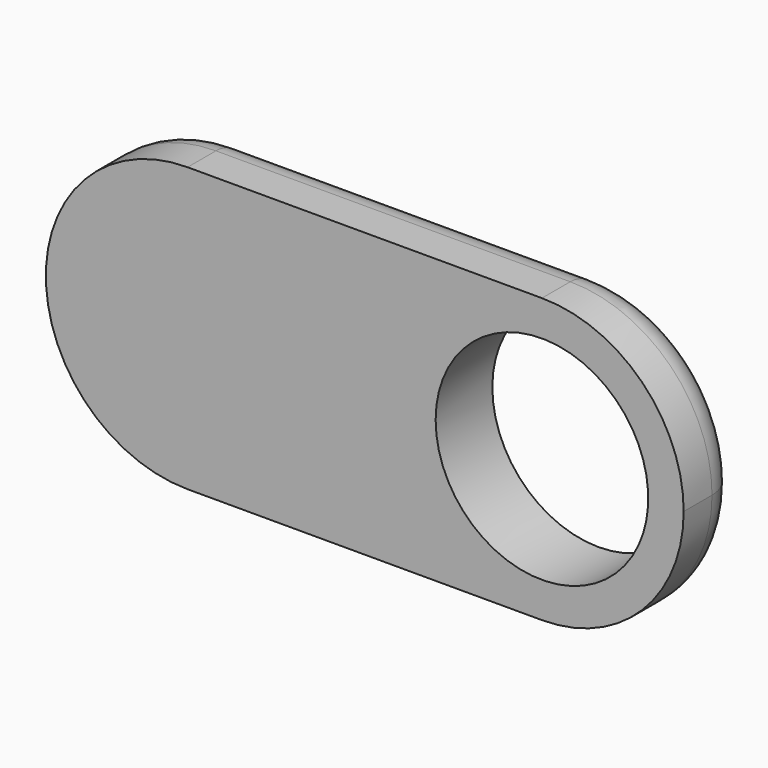
from build123d import *

# Parameters (mm, degrees)
F1_DEPTH = 1.27
F2_R     = 0.635
F4_D     = 3.81


with BuildPart() as f1:
    # F0 (on Front) → F1 (new body)
    with BuildSketch(Plane.XZ):
        with BuildLine():
            ThreePointArc((-3.175, -2.54), (-1.378949, -1.796051), (-0.635, 0))
            ThreePointArc((-0.635, 0), (-1.378949, 1.796051), (-3.175, 2.54))
            ThreePointArc((-3.175, 2.54), (-5.715, 0), (-3.175, -2.54))
        make_face()
        with BuildLine():
            ThreePointArc((-3.175, 2.54), (-1.378949, 1.796051), (-0.635, 0))
            ThreePointArc((-0.635, 0), (-1.378949, -1.796051), (-3.175, -2.54))
            Line((-3.175, -2.54), (3.175, -2.54))
            ThreePointArc((3.175, -2.54), (0.635, 0), (3.175, 2.54))
            Line((3.175, 2.54), (-3.175, 2.54))
        make_face()
        with BuildLine():
            ThreePointArc((5.715, 0), (4.971051, 1.796051), (3.175, 2.54))
            ThreePointArc((3.175, 2.54), (0.635, 0), (3.175, -2.54))
            ThreePointArc((3.175, -2.54), (4.971051, -1.796051), (5.715, 0))
        make_face()
    extrude(amount=F1_DEPTH)

    # F2
    f2_edges = [f1.edges().sort_by_distance(p)[0] for p in [
        (0, 0, -2.54),
    ]]
    fillet(f2_edges, radius=F2_R)

    # F4 (through all)
    with Locations(Plane.XZ.offset(1.27)):
        with Locations((3.175, 0)):
            Hole(F4_D / 2)


solid = f1.part
